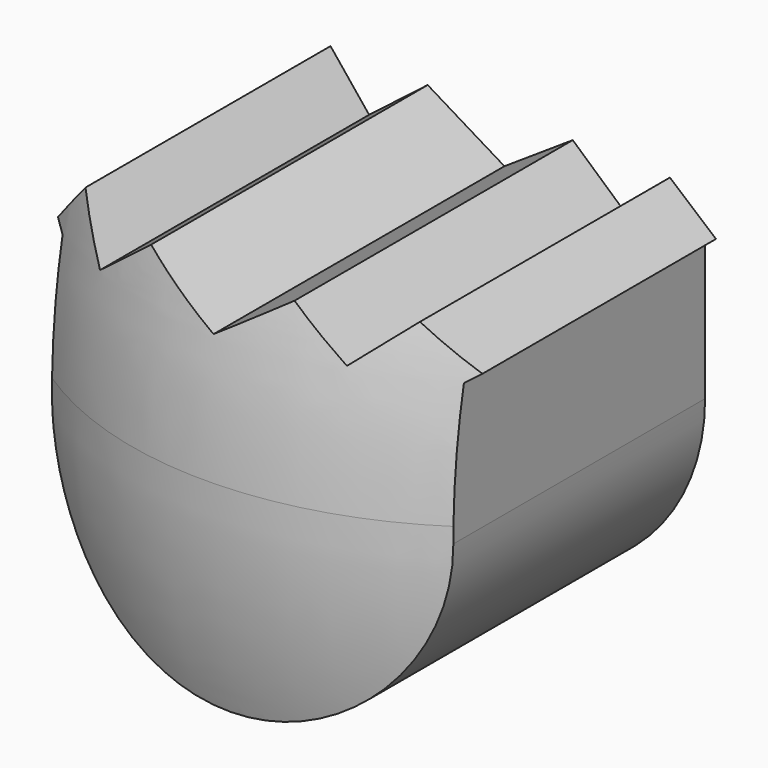
from build123d import *

# Parameters (mm, degrees)
EXTRUDE007_DEPTH = 100


with BuildPart() as body008:
    # Sketch045 → Revolution002 (revolve)
    with BuildSketch(Plane.XZ):
        with BuildLine():
            Line((0, 0), (0, 135.563389))
            ThreePointArc((23.86226, 121.281178), (13.904936, 131.720055), (0, 135.563389))
            ThreePointArc((32.577943, 87.696618), (30.229669, 105.01041), (23.86226, 121.281178))
            ThreePointArc((22.101567, 52.101534), (30.047255, 69.102202), (32.577943, 87.696618))
            ThreePointArc((22.101567, 52.101534), (13.488015, 26.476163), (18.952965, 0))
            Line((0, 0), (18.952965, 0))
        make_face()
    revolve(axis=Axis((0, 0, 0), (0, 0, 1)))


with BuildPart() as body008_1:
    # Clone009 placement: moved
    add(body008.part.moved(Location((0, -1, 0))))


with BuildPart() as common006:
    # Sketch055 → Extrude007 (new body)
    with BuildSketch(Plane.XZ):
        with BuildLine():
            Line((-19.184126, 99.1166), (-15.572962, 103.201874))
            Line((-15.572962, 103.201874), (-12.116452, 98.911034))
            Line((-12.116452, 98.911034), (-6.872091, 102.963493))
            Line((-6.872091, 102.963493), (0, 98.795265))
            Line((0, 98.795265), (6.11962, 102.844307))
            Line((6.11962, 102.844307), (10.485641, 98.955933))
            Line((10.485641, 98.955933), (14.820494, 102.725113))
            Line((14.820494, 102.725113), (18.947416, 99.223709))
            Line((18.947416, 99.223709), (17.97, 98.527489))
            Line((17.97, 98.527489), (17.97, 86.319122))
            ThreePointArc((-17.97, 86.319122), (0, 68.349122), (17.97, 86.319122))
            Line((-17.97, 98.527489), (-17.97, 86.319122))
            Line((-19.184126, 99.1166), (-17.97, 98.527489))
        make_face()
    extrude(amount=EXTRUDE007_DEPTH)

    # Common006: intersect Body008
    add(body008_1.part, mode=Mode.INTERSECT)


solid = common006.part
